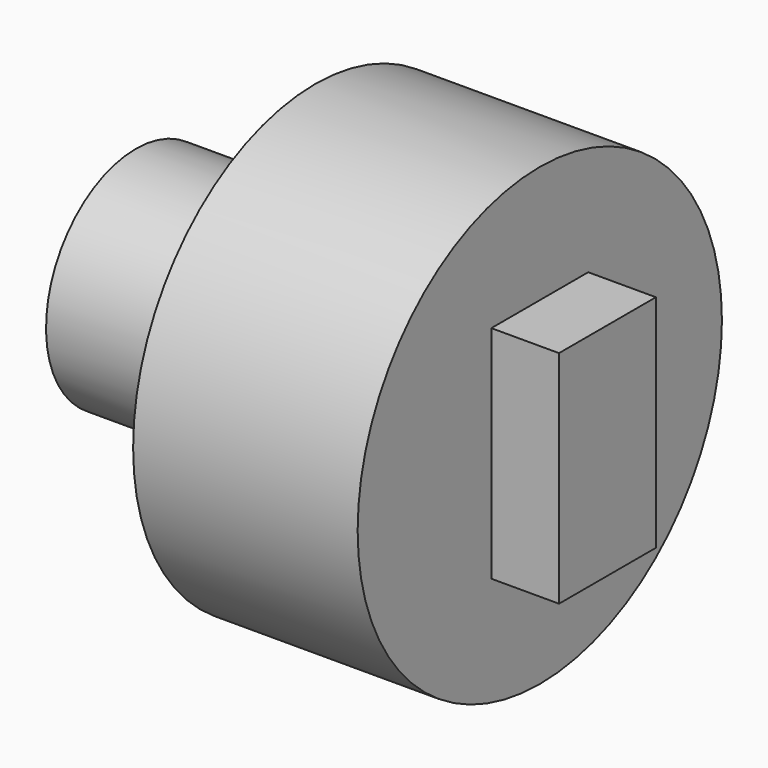
from build123d import *

# Parameters (mm, degrees)
F2_W     = 17.892942
F2_H     = 32.597526
F3_DEPTH = 10


with BuildPart() as f1:
    # F0 (on Front) → F1 (revolve)
    with BuildSketch(Plane.XZ):
        Polygon((0, 16.588142), (0, 0), (59.686307, 0), (59.686307, 33.641372), (26.510021, 33.641372), (21.549081, 16.588142), align=None)
    revolve(axis=Axis((29.843153, 0, 0), (1, 0, 0)))

    # F2 (on face) → F3 (join)
    with BuildSketch(Plane.YZ.offset(59.686307)):
        Rectangle(F2_W, F2_H)
    extrude(amount=F3_DEPTH)


solid = f1.part
